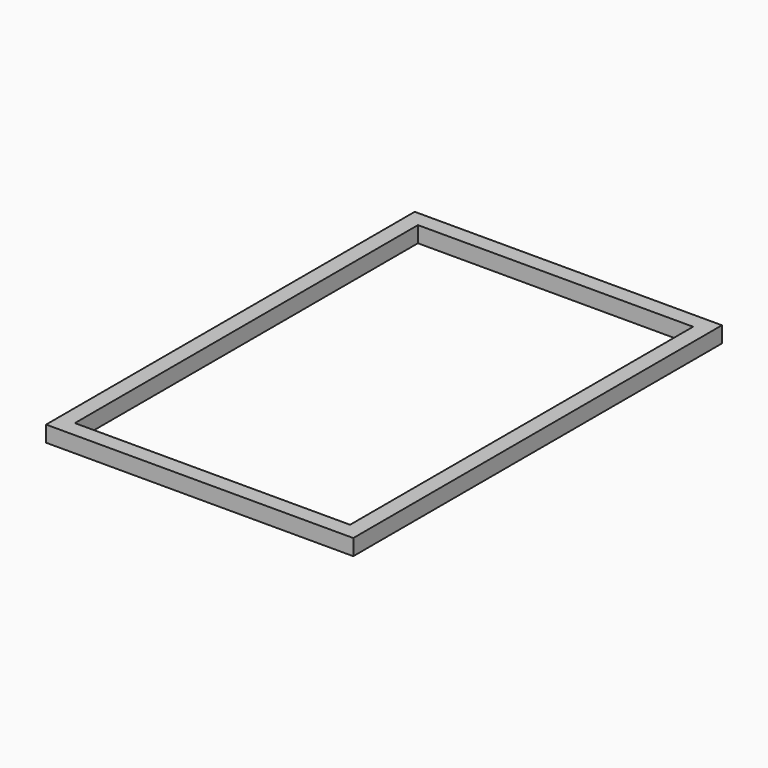
from build123d import *

# Parameters (mm, degrees)
F0_W     = 63.5
F0_H     = 63.5
F1_DEPTH = 1828.8
F2_W     = 63.5
F2_H     = 63.5
F3_DEPTH = 1092.2
F4_W     = 63.5
F4_H     = 63.5
F5_DEPTH = 1828.8
F6_W     = 63.5
F6_H     = 63.5
F7_DEPTH = 1092.2


with BuildPart() as f1:
    # F0 (on Front) → F1 (new body)
    with BuildSketch(Plane.XZ):
        with Locations((31.75, 31.75)):
            Rectangle(F0_W, F0_H)
    extrude(amount=-F1_DEPTH)

    # F2 (on face) → F3 (join)
    with BuildSketch(Plane.YZ.offset(63.5)):
        with Locations((31.75, 31.75)):
            Rectangle(F2_W, F2_H)
    extrude(amount=F3_DEPTH)

    # F4 (on face) → F5 (join)
    with BuildSketch(Plane.XZ):
        with Locations((1187.45, 31.75)):
            Rectangle(F4_W, F4_H)
    extrude(amount=-F5_DEPTH)

    # F6 (on face) → F7 (join)
    with BuildSketch(Plane.YZ.offset(63.5)):
        with Locations((1797.05, 31.75)):
            Rectangle(F6_W, F6_H)
    extrude(amount=F7_DEPTH)


solid = f1.part
